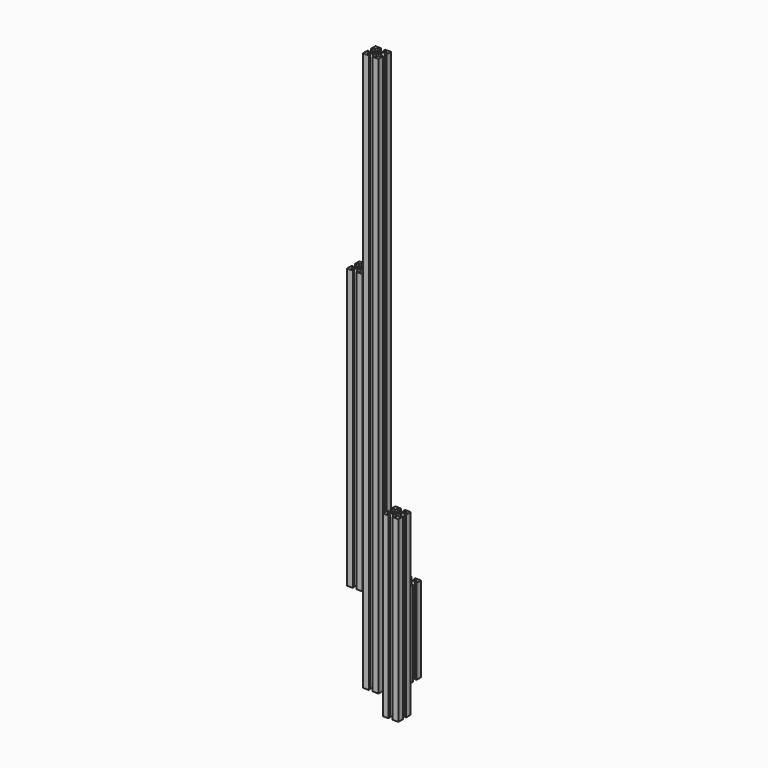
from build123d import *

# Parameters (mm, degrees)
F0_R     = 2.6035
F1_DEPTH = 914.4
F2_R     = 2.6035
F3_DEPTH = 292.1
F4_R     = 2.6035
F5_DEPTH = 139.7
F6_R     = 2.6035
F7_DEPTH = 457.2


with BuildPart() as f1:
    # F0 (on Top) → F1 (new body)
    with BuildSketch(Plane.XY):
        Polygon((2.54, 4.5085), (-2.54, 4.5085), (-8.1915, 10.16), (-3.2385, 10.16), (-3.2385, 12.7), (-12.7, 12.7), (-12.7, 3.2385), (-10.16, 3.2385), (-10.16, 8.1915), (-4.5085, 2.54), (-4.5085, -2.54), (-10.16, -8.1915), (-10.16, -3.2385), (-12.7, -3.2385), (-12.7, -12.7), (-3.2385, -12.7), (-3.2385, -10.16), (-8.1915, -10.16), (-2.54, -4.5085), (2.54, -4.5085), (8.1915, -10.16), (3.2385, -10.16), (3.2385, -12.7), (12.7, -12.7), (12.7, -3.2385), (10.16, -3.2385), (10.16, -8.1915), (4.5085, -2.54), (4.5085, 2.54), (10.16, 8.1915), (10.16, 3.2385), (12.7, 3.2385), (12.7, 12.7), (3.2385, 12.7), (3.2385, 10.16), (8.1915, 10.16), align=None)
        Circle(F0_R, mode=Mode.SUBTRACT)
    extrude(amount=F1_DEPTH)


with BuildPart() as f3:
    # F2 (on Top) → F3 (new body)
    with BuildSketch(Plane.XY):
        Polygon((71.23793, -40.874071), (66.15793, -40.874071), (60.50643, -35.222571), (65.45943, -35.222571), (65.45943, -32.682571), (55.99793, -32.682571), (55.99793, -42.144071), (58.53793, -42.144071), (58.53793, -37.191071), (64.18943, -42.842571), (64.18943, -47.922571), (58.53793, -53.574071), (58.53793, -48.621071), (55.99793, -48.621071), (55.99793, -58.082571), (65.45943, -58.082571), (65.45943, -55.542571), (60.50643, -55.542571), (66.15793, -49.891071), (71.23793, -49.891071), (76.88943, -55.542571), (71.93643, -55.542571), (71.93643, -58.082571), (81.39793, -58.082571), (81.39793, -48.621071), (78.85793, -48.621071), (78.85793, -53.574071), (73.20643, -47.922571), (73.20643, -42.842571), (78.85793, -37.191071), (78.85793, -42.144071), (81.39793, -42.144071), (81.39793, -32.682571), (71.93643, -32.682571), (71.93643, -35.222571), (76.88943, -35.222571), align=None)
        with Locations((68.69793, -45.382571)):
            Circle(F2_R, mode=Mode.SUBTRACT)
    extrude(amount=F3_DEPTH)


with BuildPart() as f5:
    # F4 (on Top) → F5 (new body)
    with BuildSketch(Plane.XY):
        Polygon((16.721279, 48.271485), (11.641279, 48.271485), (5.989779, 53.922985), (10.942779, 53.922985), (10.942779, 56.462985), (1.481279, 56.462985), (1.481279, 47.001485), (4.021279, 47.001485), (4.021279, 51.954485), (9.672779, 46.302985), (9.672779, 41.222985), (4.021279, 35.571485), (4.021279, 40.524485), (1.481279, 40.524485), (1.481279, 31.062985), (10.942779, 31.062985), (10.942779, 33.602985), (5.989779, 33.602985), (11.641279, 39.254485), (16.721279, 39.254485), (22.372779, 33.602985), (17.419779, 33.602985), (17.419779, 31.062985), (26.881279, 31.062985), (26.881279, 40.524485), (24.341279, 40.524485), (24.341279, 35.571485), (18.689779, 41.222985), (18.689779, 46.302985), (24.341279, 51.954485), (24.341279, 47.001485), (26.881279, 47.001485), (26.881279, 56.462985), (17.419779, 56.462985), (17.419779, 53.922985), (22.372779, 53.922985), align=None)
        with Locations((14.181279, 43.762985)):
            Circle(F4_R, mode=Mode.SUBTRACT)
    extrude(amount=F5_DEPTH)


with BuildPart() as f7:
    # F6 (on Top) → F7 (new body)
    with BuildSketch(Plane.XY):
        Polygon((-190.001651, 212.469231), (-195.081651, 212.469231), (-200.733151, 218.120731), (-195.780151, 218.120731), (-195.780151, 220.660731), (-205.241651, 220.660731), (-205.241651, 211.199231), (-202.701651, 211.199231), (-202.701651, 216.152231), (-197.050151, 210.500731), (-197.050151, 205.420731), (-202.701651, 199.769231), (-202.701651, 204.722231), (-205.241651, 204.722231), (-205.241651, 195.260731), (-195.780151, 195.260731), (-195.780151, 197.800731), (-200.733151, 197.800731), (-195.081651, 203.452231), (-190.001651, 203.452231), (-184.350151, 197.800731), (-189.303151, 197.800731), (-189.303151, 195.260731), (-179.841651, 195.260731), (-179.841651, 204.722231), (-182.381651, 204.722231), (-182.381651, 199.769231), (-188.033151, 205.420731), (-188.033151, 210.500731), (-182.381651, 216.152231), (-182.381651, 211.199231), (-179.841651, 211.199231), (-179.841651, 220.660731), (-189.303151, 220.660731), (-189.303151, 218.120731), (-184.350151, 218.120731), align=None)
        with Locations((-192.541651, 207.960731)):
            Circle(F6_R, mode=Mode.SUBTRACT)
    extrude(amount=F7_DEPTH)


solid = Compound([f1.part, f3.part, f5.part, f7.part])
